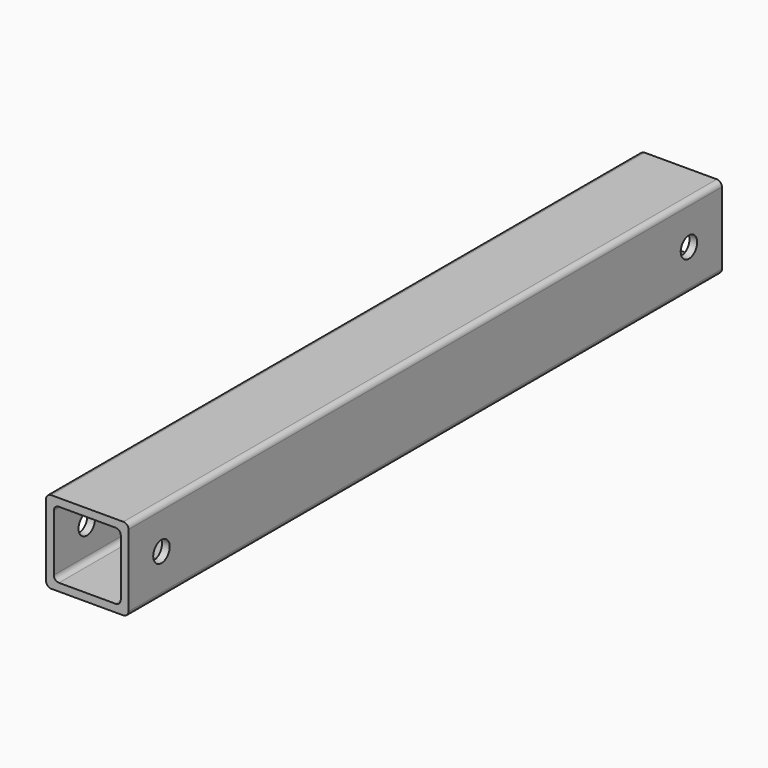
from build123d import *

# Parameters (mm, degrees)
F1_DEPTH = 457.2
F2_R     = 6.35
F3_DEPTH = 50.801


with BuildPart() as f1:
    # F0 (on Front) → F1 (new body)
    with BuildSketch(Plane.XZ):
        with BuildLine():
            ThreePointArc((25.4, 22.225), (24.470064, 24.470064), (22.225, 25.4))
            Line((22.225, 25.4), (-22.225, 25.4))
            ThreePointArc((-22.225, 25.4), (-24.470064, 24.470064), (-25.4, 22.225))
            Line((-25.4, 22.225), (-25.4, -22.225))
            ThreePointArc((-25.4, -22.225), (-24.470064, -24.470064), (-22.225, -25.4))
            Line((-22.225, -25.4), (22.225, -25.4))
            ThreePointArc((22.225, -25.4), (24.470064, -24.470064), (25.4, -22.225))
            Line((25.4, -22.225), (25.4, 22.225))
        make_face()
        with BuildLine():
            Line((-17.4625, 20.6375), (17.4625, 20.6375))
            ThreePointArc((17.4625, 20.6375), (19.707564, 19.707564), (20.6375, 17.4625))
            Line((20.6375, 17.4625), (20.6375, -17.4625))
            ThreePointArc((20.6375, -17.4625), (19.707564, -19.707564), (17.4625, -20.6375))
            Line((17.4625, -20.6375), (-17.4625, -20.6375))
            ThreePointArc((-17.4625, -20.6375), (-19.707564, -19.707564), (-20.6375, -17.4625))
            Line((-20.6375, -17.4625), (-20.6375, 17.4625))
            ThreePointArc((-20.6375, 17.4625), (-19.707564, 19.707564), (-17.4625, 20.6375))
        make_face(mode=Mode.SUBTRACT)
    extrude(amount=F1_DEPTH)

    # F2 (on face) → F3 (cut, through all)
    with BuildSketch(Plane.YZ.offset(25.4)):
        with Locations((-431.8, 0)):
            Circle(F2_R)
        with Locations((-25.4, 0)):
            Circle(F2_R)
    extrude(amount=-F3_DEPTH, mode=Mode.SUBTRACT)


solid = f1.part
